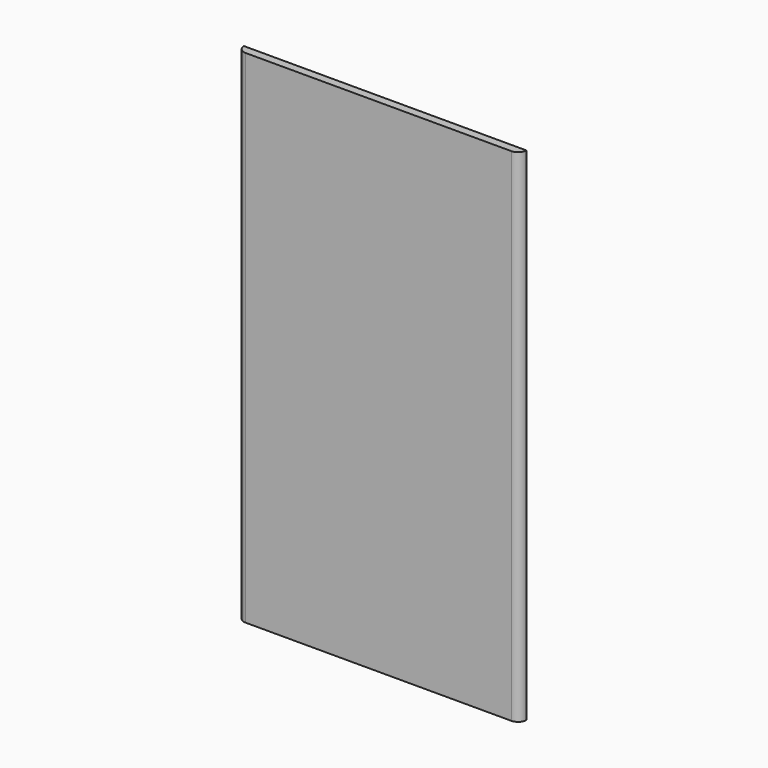
from build123d import *

# Parameters (mm, degrees)
F0_W      = 64.77
F0_H      = 115.062
F1_DEPTH  = 2.54
F2_R      = 1.905
F3_R      = 1.905
F1_FACE_W = 64.77
F1_FACE_H = 115.062
F4_DEPTH  = 0.635


with BuildPart() as f1:
    # F0 (on Front) → F1 (new body)
    with BuildSketch(Plane.XZ):
        Rectangle(F0_W, F0_H)
    extrude(amount=F1_DEPTH)

    # F2
    f2_edges = [f1.edges().sort_by_distance(p)[0] for p in [
        (32.385, -2.54, 0),
    ]]
    fillet(f2_edges, radius=F2_R)

    # F3
    f3_edges = [f1.edges().sort_by_distance(p)[0] for p in [
        (-32.385, -2.54, 0),
    ]]
    fillet(f3_edges, radius=F3_R)

    # F1_face (on face) → F4 (cut)
    with BuildSketch(Plane(origin=(0, 0, 0), x_dir=(1, 0, 0), z_dir=(0, 1, 0))):
        Rectangle(F1_FACE_W, F1_FACE_H)
    extrude(amount=-F4_DEPTH, mode=Mode.SUBTRACT)


solid = f1.part
